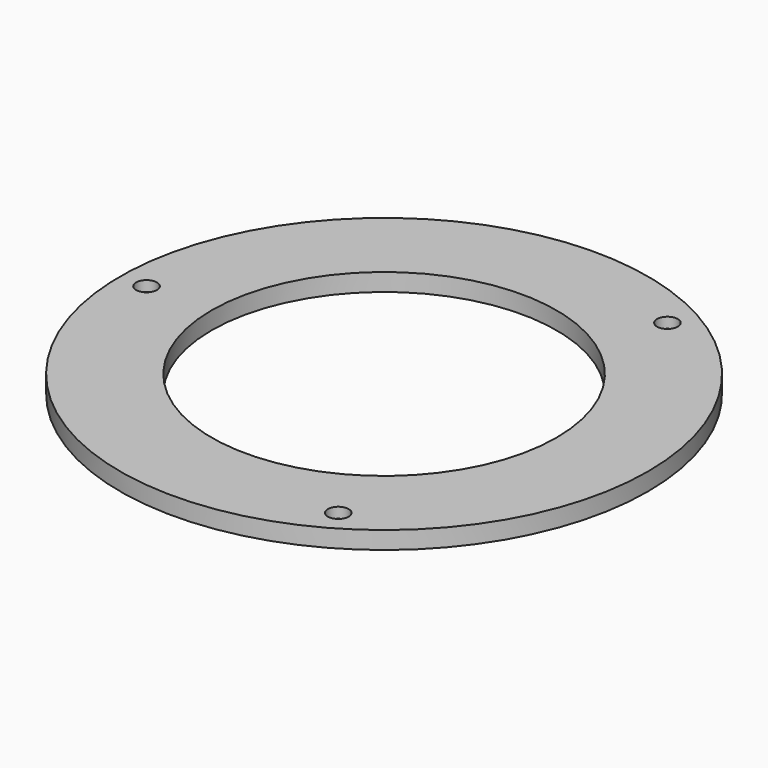
from build123d import *

# Parameters (mm, degrees)
SKETCH_R           = 75
SKETCH_R_2         = 49
PAD_DEPTH          = 5
SKETCH001_R        = 1.7
POCKET_DEPTH       = 429.382903
SKETCH002_R        = 2.95
POCKET001_DEPTH    = 3
POLARPATTERN_COUNT = 3


with BuildPart() as part:
    # Sketch → Pad (new body)
    with BuildSketch(Plane.XY):
        Circle(SKETCH_R)
        Circle(SKETCH_R_2, mode=Mode.SUBTRACT)
    extrude(amount=PAD_DEPTH)

    # Sketch001 (on Face4 of Pad) → Pocket (cut, through all)
    with BuildSketch(Plane.XY.offset(5)):
        with Locations((-67.5, 0)):
            Circle(SKETCH001_R)
    pocket = extrude(amount=-POCKET_DEPTH, mode=Mode.SUBTRACT)

    # Sketch002 (on Face3 of Pocket) → Pocket001 (cut)
    with BuildSketch(Plane.XY.offset(5)):
        with Locations((-67.5, 0)):
            Circle(SKETCH002_R)
    pocket001 = extrude(amount=-POCKET001_DEPTH, mode=Mode.SUBTRACT)

    # PolarPattern: Pocket001, Pocket ×3 about axis
    polarpattern_axis = Axis((0, 0, 5), (0, 0, 1))
    for i in range(1, POLARPATTERN_COUNT):
        add(pocket001.rotate(polarpattern_axis, i * 360 / POLARPATTERN_COUNT), mode=Mode.SUBTRACT)
        add(pocket.rotate(polarpattern_axis, i * 360 / POLARPATTERN_COUNT), mode=Mode.SUBTRACT)


solid = part.part
